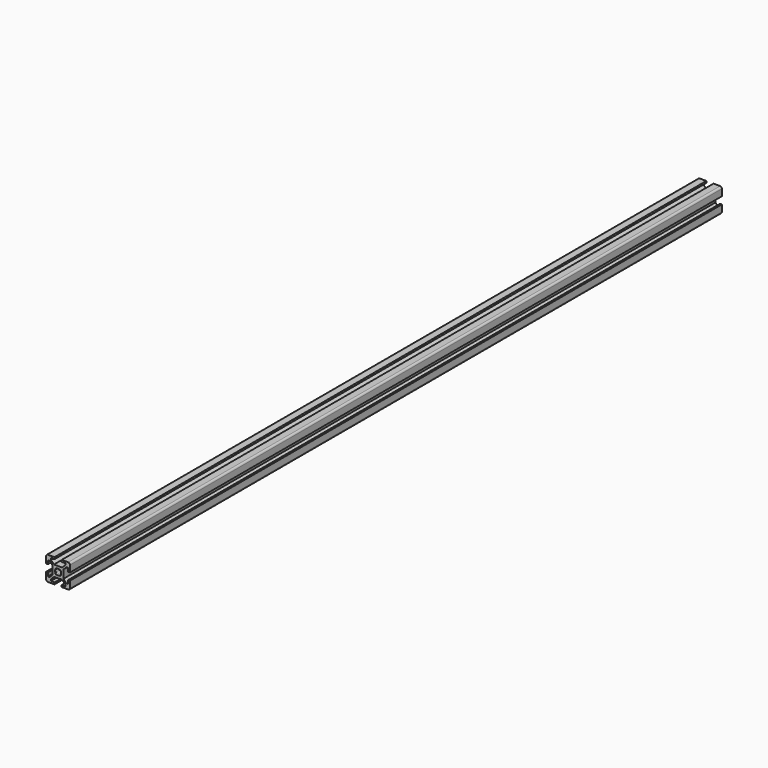
from build123d import *

# Parameters (mm, degrees)
F1_DEPTH = 680


with BuildPart() as f1:
    # F0 (on Front) → F1 (new body)
    with BuildSketch(Plane.XZ):
        with BuildLine():
            Line((3, -10), (8.5, -10))
            ThreePointArc((8.5, -10), (9.5606601718, -9.5606601718), (10, -8.5))
            Line((10, -8.5), (10, -3))
            Line((10, -3), (8.5, -3))
            Line((8.5, -3), (8.5, -6))
            Line((8.5, -6), (7.0606601718, -6))
            Line((7.0606601718, -6), (4.5, -3.4393398282))
            Line((4.5, -3.4393398282), (4.5, 3.4393398282))
            Line((4.5, 3.4393398282), (7.0606601718, 6))
            Line((7.0606601718, 6), (8.5, 6))
            Line((8.5, 6), (8.5, 3))
            Line((8.5, 3), (10, 3))
            Line((10, 3), (10, 8.5))
            ThreePointArc((10, 8.5), (9.5606601718, 9.5606601718), (8.5, 10))
            Line((8.5, 10), (3, 10))
            Line((3, 10), (3, 8.5))
            Line((3, 8.5), (6, 8.5))
            Line((6, 8.5), (6, 7.0606601718))
            Line((6, 7.0606601718), (3.4393398282, 4.5))
            Line((3.4393398282, 4.5), (-3.4393398282, 4.5))
            Line((-3.4393398282, 4.5), (-6, 7.0606601718))
            Line((-6, 7.0606601718), (-6, 8.5))
            Line((-6, 8.5), (-3, 8.5))
            Line((-3, 8.5), (-3, 10))
            Line((-3, 10), (-8.5, 10))
            ThreePointArc((-8.5, 10), (-9.5606601718, 9.5606601718), (-10, 8.5))
            Line((-10, 8.5), (-10, 3))
            Line((-10, 3), (-8.5, 3))
            Line((-8.5, 3), (-8.5, 6))
            Line((-8.5, 6), (-7.0606601718, 6))
            Line((-7.0606601718, 6), (-4.5, 3.4393398282))
            Line((-4.5, 3.4393398282), (-4.5, -3.4393398282))
            Line((-4.5, -3.4393398282), (-7.0606601718, -6))
            Line((-7.0606601718, -6), (-8.5, -6))
            Line((-8.5, -6), (-8.5, -3))
            Line((-8.5, -3), (-10, -3))
            Line((-10, -3), (-10, -8.5))
            ThreePointArc((-10, -8.5), (-9.5606601718, -9.5606601718), (-8.5, -10))
            Line((-8.5, -10), (-3, -10))
            Line((-3, -10), (-3, -8.5))
            Line((-3, -8.5), (-6, -8.5))
            Line((-6, -8.5), (-6, -7.0606601718))
            Line((-6, -7.0606601718), (-3.4393398282, -4.5))
            Line((-3.4393398282, -4.5), (3.4393398282, -4.5))
            Line((3.4393398282, -4.5), (6, -7.0606601718))
            Line((6, -7.0606601718), (6, -8.5))
            Line((6, -8.5), (3, -8.5))
            Line((3, -8.5), (3, -10))
        make_face()
        with BuildLine():
            ThreePointArc((-1.1560121095, 2.2166722813), (0, 2.5), (1.1560121095, 2.2166722813))
            Line((1.1560121095, 2.2166722813), (1.4393398282, 2.5))
            Line((1.4393398282, 2.5), (2.5, 1.4393398282))
            Line((2.5, 1.4393398282), (2.2166722813, 1.1560121095))
            ThreePointArc((2.2166722813, 1.1560121095), (2.5, 0), (2.2166722813, -1.1560121095))
            Line((2.2166722813, -1.1560121095), (2.5, -1.4393398282))
            Line((2.5, -1.4393398282), (1.4393398282, -2.5))
            Line((1.4393398282, -2.5), (1.1560121095, -2.2166722813))
            ThreePointArc((1.1560121095, -2.2166722813), (0, -2.5), (-1.1560121095, -2.2166722813))
            Line((-1.1560121095, -2.2166722813), (-1.4393398282, -2.5))
            Line((-1.4393398282, -2.5), (-2.5, -1.4393398282))
            Line((-2.5, -1.4393398282), (-2.2166722813, -1.1560121095))
            ThreePointArc((-2.2166722813, -1.1560121095), (-2.5, 0), (-2.2166722813, 1.1560121095))
            Line((-2.2166722813, 1.1560121095), (-2.5, 1.4393398282))
            Line((-2.5, 1.4393398282), (-1.4393398282, 2.5))
            Line((-1.4393398282, 2.5), (-1.1560121095, 2.2166722813))
        make_face(mode=Mode.SUBTRACT)
    extrude(amount=F1_DEPTH)


solid = f1.part
